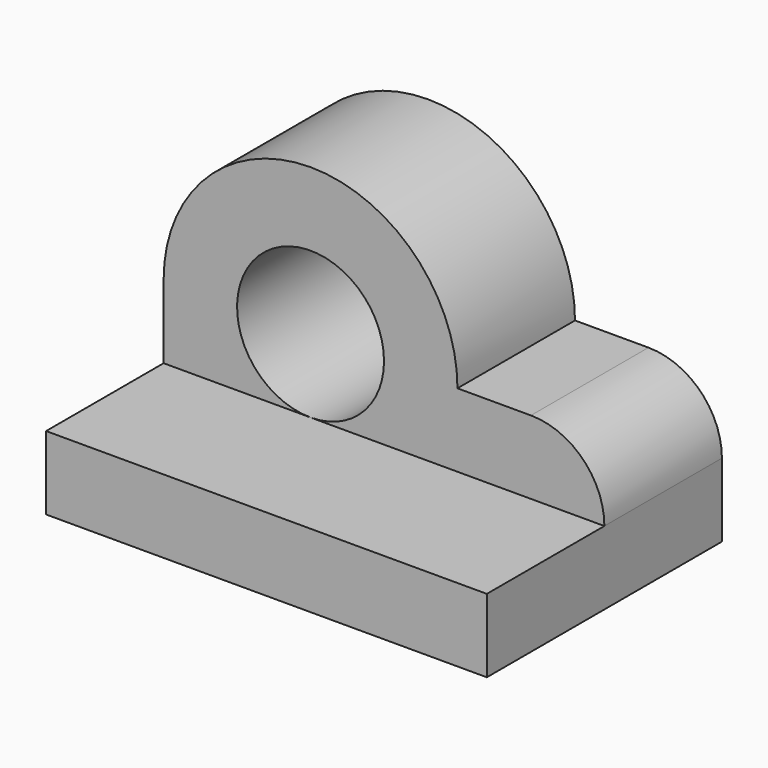
from build123d import *

# Parameters (mm, degrees)
F0_R     = 10
F1_DEPTH = 20
F2_W     = 60
F2_H     = 10
F3_DEPTH = 20


with BuildPart() as f1:
    # F0 (on Front) → F1 (new body)
    with BuildSketch(Plane.XZ):
        with BuildLine():
            Line((-60, 0), (0, 0))
            Line((0, 0), (0, 10))
            ThreePointArc((0, 10), (-2.928932, 17.071068), (-10, 20))
            Line((-10, 20), (-20, 20))
            ThreePointArc((-20, 20), (-40, 40), (-60, 20))
            Line((-60, 20), (-60, 10))
            Line((-60, 10), (-60, 0))
        make_face()
        with Locations((-40, 20)):
            Circle(F0_R, mode=Mode.SUBTRACT)
    extrude(amount=F1_DEPTH)

    # F2 (on face) → F3 (join)
    with BuildSketch(Plane.XZ.offset(20)):
        with Locations((-30, 5)):
            Rectangle(F2_W, F2_H)
    extrude(amount=F3_DEPTH)


solid = f1.part
